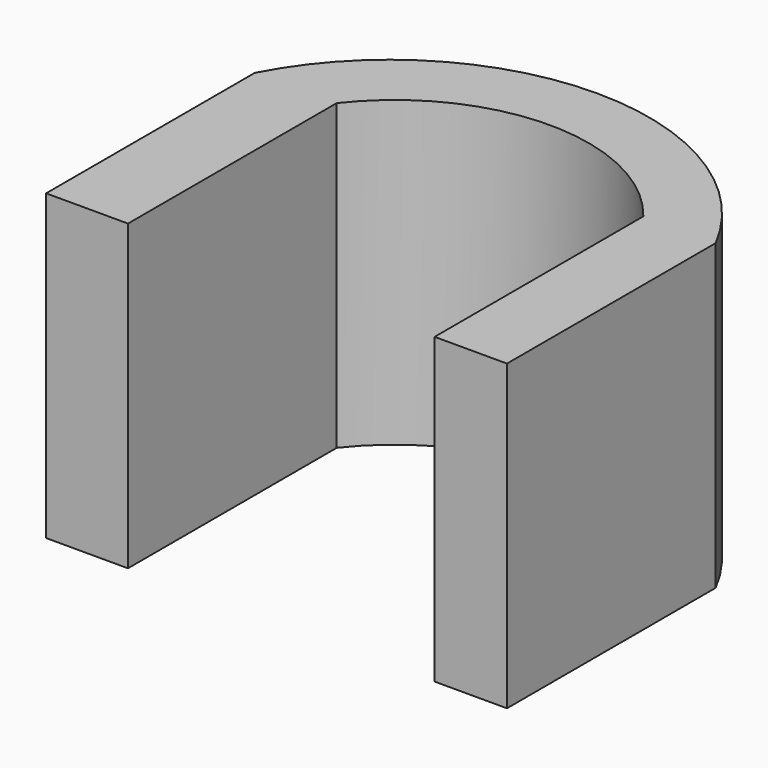
from build123d import *

# Parameters (mm, degrees)
F1_DEPTH = 50
F2_DEPTH = 50.001


with BuildPart() as f1:
    # F0 (on Top) → F1 (new body)
    with BuildSketch(Plane.XY):
        with BuildLine():
            Line((-33.415943, 42.985767), (-33.415943, 0))
            Line((-33.415943, 0), (-19.92406, 0))
            Line((-19.92406, 0), (-19.92406, 42.985767))
            ThreePointArc((-19.92406, 42.985767), (5.333999, 55.333899), (30.592058, 42.985767))
            Line((30.592058, 42.985767), (30.592058, 0))
            Line((30.592058, 0), (42.515114, 0))
            Line((42.515114, 0), (42.515114, 42.985767))
            ThreePointArc((42.515114, 42.985767), (4.549585, 66.042514), (-33.415943, 42.985767))
        make_face()
        with BuildLine():
            Line((-19.92406, 42.985767), (-19.92406, 0))
            Line((-19.92406, 0), (30.592058, 0))
            Line((30.592058, 0), (30.592058, 42.985767))
            ThreePointArc((30.592058, 42.985767), (5.333999, 55.333899), (-19.92406, 42.985767))
        make_face()
    extrude(amount=F1_DEPTH)

    # F0 (on Top) → F2 (cut, through all)
    with BuildSketch(Plane.XY):
        with BuildLine():
            Line((-19.92406, 42.985767), (-19.92406, 0))
            Line((-19.92406, 0), (30.592058, 0))
            Line((30.592058, 0), (30.592058, 42.985767))
            ThreePointArc((30.592058, 42.985767), (5.333999, 55.333899), (-19.92406, 42.985767))
        make_face()
    extrude(amount=F2_DEPTH, mode=Mode.SUBTRACT)


solid = f1.part
